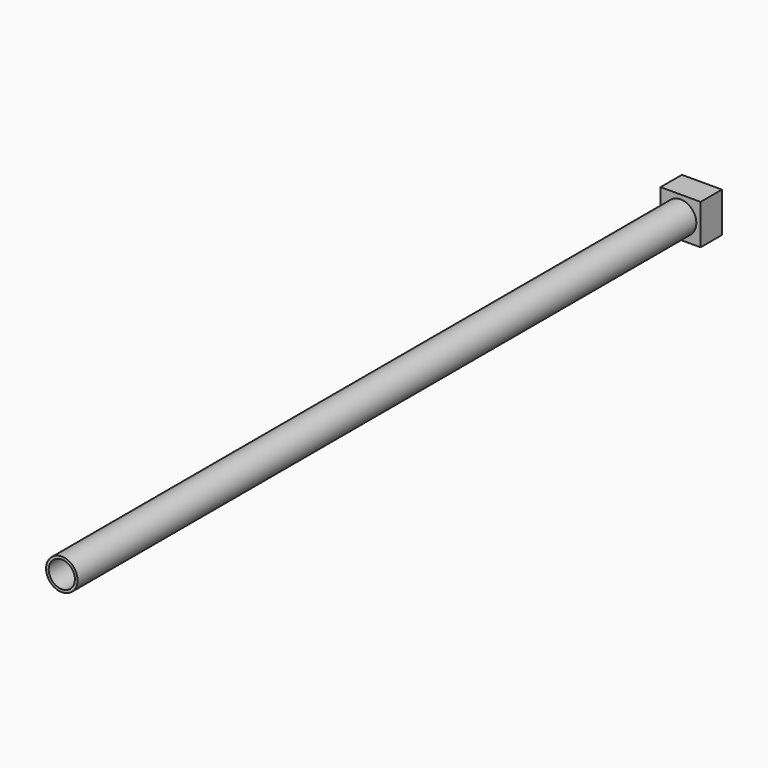
from build123d import *

# Parameters (mm, degrees)
F0_R     = 1.5
F0_R_2   = 1.246
F1_DEPTH = 76.2
F0_W     = 3.81
F0_H     = 3.81
F2_DEPTH = 2.54


with BuildPart() as f1:
    # F0 (on Front) → F1 (new body)
    with BuildSketch(Plane.XZ):
        Circle(F0_R)
        Circle(F0_R_2, mode=Mode.SUBTRACT)
    extrude(amount=F1_DEPTH)

    # F0 (on Front) → F2 (join)
    with BuildSketch(Plane.XZ):
        Rectangle(F0_W, F0_H)
        Circle(F0_R, mode=Mode.SUBTRACT)
        Circle(F0_R_2)
    extrude(amount=F2_DEPTH)


solid = f1.part
